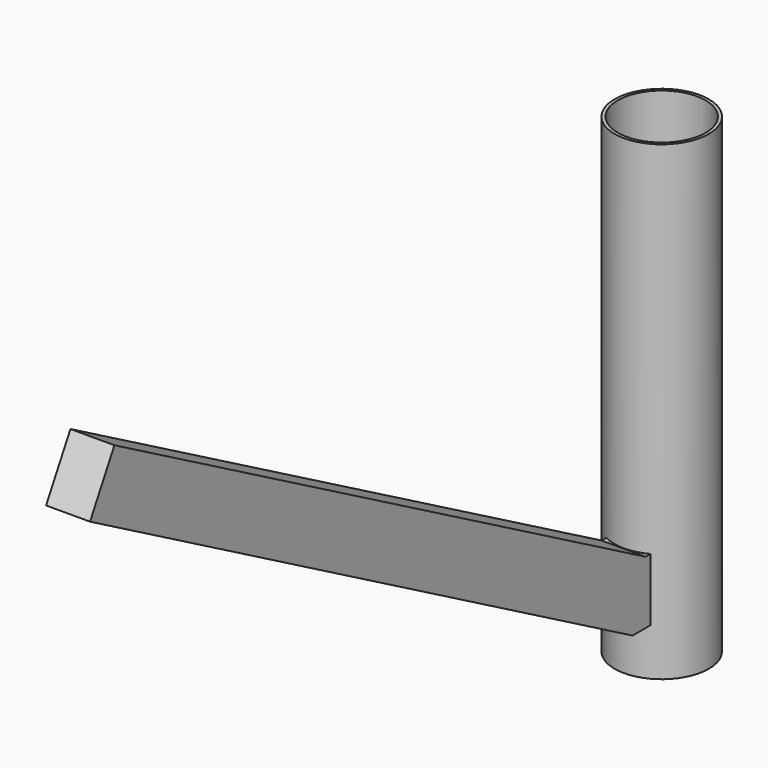
from build123d import *

# Parameters (mm, degrees)
F0_R      = 15
F1_DEPTH  = 150
F2_R      = 14
F3_DEPTH  = 150
F4_W      = 14
F4_H      = 20
F9_W      = 7
F9_H      = 30
F10_DEPTH = 250


with BuildPart() as f1:
    # F0 (on Top) → F1 (new body)
    with BuildSketch(Plane.XY):
        Circle(F0_R)
    extrude(amount=F1_DEPTH)

    # F2 (on face) → F3 (cut, through all)
    with BuildSketch(Plane.XY.offset(150)):
        Circle(F2_R)
    extrude(amount=-F3_DEPTH, mode=Mode.SUBTRACT)

    # F6: sweep along a path in F5
    with BuildLine(Plane.YZ) as f6_path:
        Line((0, 35.6896594167), (-15, 35.6896594167))
        Line((-15, 35.6896594167), (-226.3578921556, 152.8566330671))
    # F4 (on Front) → F6 (sweep)
    with BuildSketch(Plane.XZ):
        with Locations((0, 25)):
            Rectangle(F4_W, F4_H)
    sweep(path=f6_path.line, transition=Transition.RIGHT)


with BuildPart() as f10:
    # F9 (on face) → F10 (new body)
    with BuildSketch(Plane(origin=(0, 0, 0), x_dir=(-1, 0, 0), z_dir=(0, 0.8660254038, 0.5))):
        with Locations((3.5, 36.4281994849)):
            Rectangle(F9_W, F9_H)
        with Locations((-3.5, 36.4281994849)):
            Rectangle(F9_W, F9_H)
    extrude(amount=F10_DEPTH)

    # F11: cut F1
    add(f1.part, mode=Mode.SUBTRACT)


solid = f1.part
